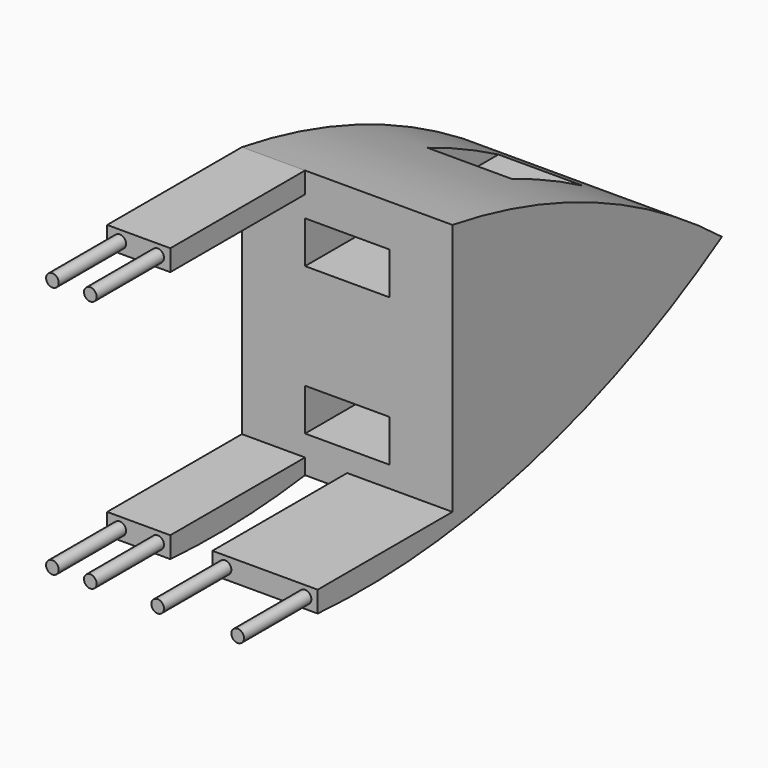
from build123d import *

# Parameters (mm, degrees)
F1_DEPTH  = 127
F2_W      = 25.4
F2_H      = 101.6
F3_DEPTH  = 25.4
F4_W      = 50.8
F4_H      = 25.4
F5_DEPTH  = 203.2
F6_R      = 3.81
F7_DEPTH  = 50.8
F8_R      = 3.821985
F8_R_2    = 3.81
F9_DEPTH  = 50.8
F10_W     = 38.1
F10_H     = 12.7
F11_DEPTH = 101.6
F12_R     = 3.81
F13_DEPTH = 50.8


with BuildPart() as f1:
    # F0 (on Right) → F1 (new body)
    with BuildSketch(Plane.YZ):
        with BuildLine():
            Line((-50.025108, 117.912475), (-50.025108, 29.012475))
            Line((-50.025108, 29.012475), (153.174892, 29.012475))
            ThreePointArc((153.174892, 29.012475), (57.178696, 86.271171), (-50.025108, 117.912475))
        make_face()
        with BuildLine():
            Line((153.174892, 29.012475), (-50.025108, 29.012475))
            Line((-50.025108, 29.012475), (-50.025108, -34.487525))
            Line((-50.025108, -34.487525), (-151.625108, -34.487525))
            Line((-151.625108, -34.487525), (-151.625108, -47.187525))
            ThreePointArc((-151.625108, -47.187525), (6.772136, -33.076502), (153.174892, 29.012475))
        make_face()
    extrude(amount=F1_DEPTH)

    # F2 (on face) → F3 (cut)
    with BuildSketch(Plane.XY.offset(-34.487525)):
        with Locations((50.8, -100.825108)):
            Rectangle(F2_W, F2_H)
    extrude(amount=-F3_DEPTH, mode=Mode.SUBTRACT)

    # F4 (on face) → F5 (cut)
    with BuildSketch(Plane.XZ.offset(50.025108)):
        with Locations((63.5, 79.812475)):
            Rectangle(F4_W, F4_H)
        with Locations((63.5, -9.087525)):
            Rectangle(F4_W, F4_H)
    extrude(amount=-F5_DEPTH, mode=Mode.SUBTRACT)

    # F6 (on face) → F7 (join)
    with BuildSketch(Plane.XZ.offset(151.625108)):
        with Locations((71.12, -40.837525)):
            Circle(F6_R)
        with Locations((119.38, -40.837525)):
            Circle(F6_R)
    extrude(amount=F7_DEPTH)

    # F8 (on face) → F9 (join)
    with BuildSketch(Plane.XZ.offset(151.625108)):
        with Locations((7.62, -40.837525)):
            Circle(F8_R)
        with Locations((30.48, -40.837525)):
            Circle(F8_R_2)
    extrude(amount=F9_DEPTH)

    # F10 (on face) → F11 (join)
    with BuildSketch(Plane.XZ.offset(50.025108)):
        with Locations((19.05, 111.562475)):
            Rectangle(F10_W, F10_H)
    extrude(amount=F11_DEPTH)

    # F12 (on face) → F13 (join)
    with BuildSketch(Plane.XZ.offset(151.625108)):
        with Locations((30.48, 111.562475)):
            Circle(F12_R)
        with Locations((7.62, 111.562475)):
            Circle(F12_R)
    extrude(amount=F13_DEPTH)


solid = f1.part
